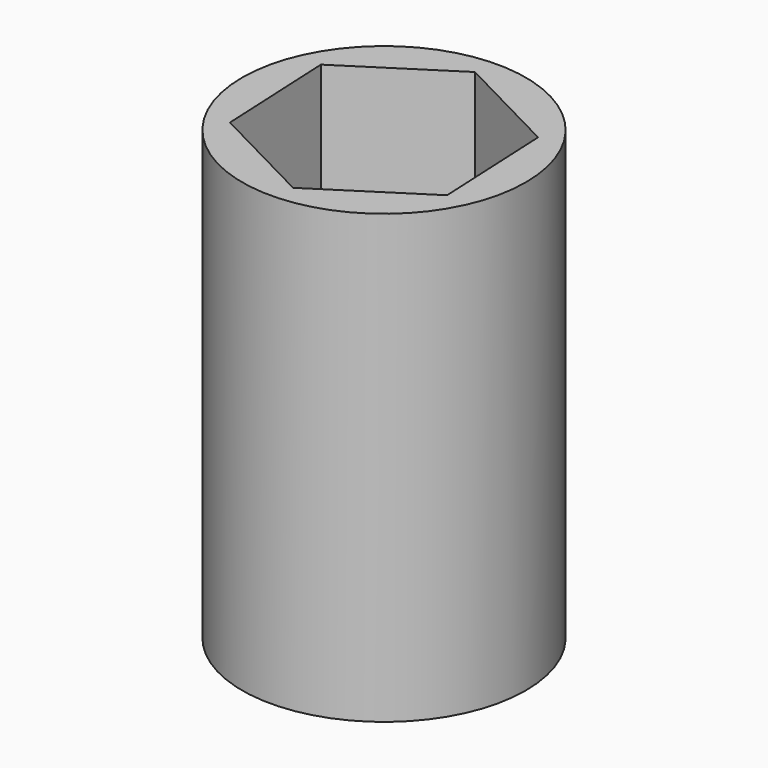
from build123d import *

# Parameters (mm, degrees)
F1_R     = 13
F2_DEPTH = 41
F3_DEPTH = 38
F4_R     = 7.5
F5_DEPTH = 25


with BuildPart() as f2:
    # F1 (on Top) → F2 (new body)
    with BuildSketch(Plane.XY):
        Circle(F1_R)
    extrude(amount=-F2_DEPTH)

    # F0 (on Top) → F3 (cut)
    with BuildSketch(Plane.XY):
        Polygon((-0.524238, 11.072722), (-9.851377, 5.082358), (-9.32714, -5.990364), (0.524238, -11.072722), (9.851377, -5.082358), (9.32714, 5.990364), align=None)
    extrude(amount=-F3_DEPTH, mode=Mode.SUBTRACT)

    # F4 (on face) → F5 (cut)
    with BuildSketch(Plane(origin=(0, 0, -41), x_dir=(1, 0, 0), z_dir=(0, 0, -1))):
        Circle(F4_R)
    extrude(amount=-F5_DEPTH, mode=Mode.SUBTRACT)


solid = f2.part
